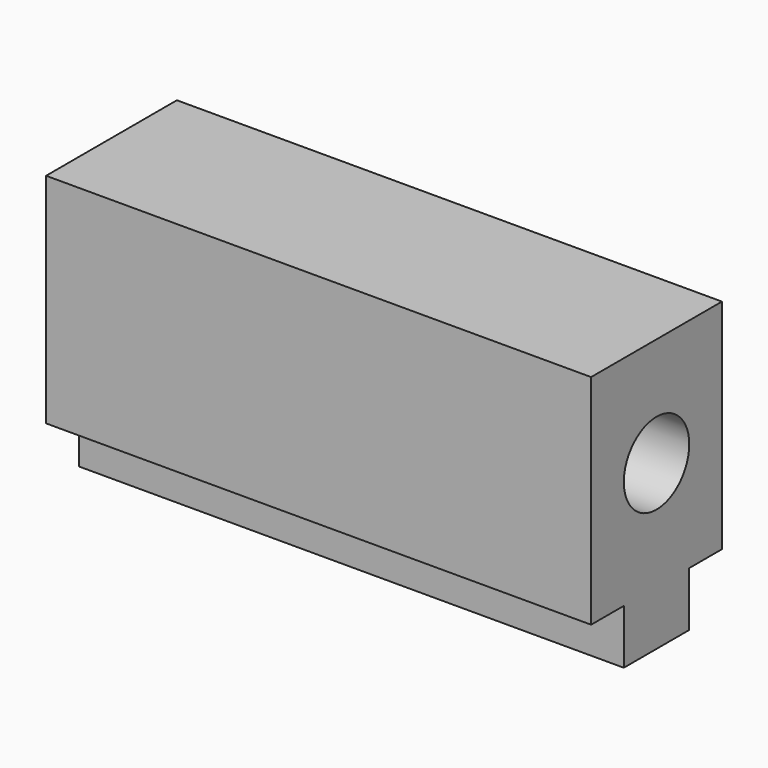
from build123d import *

# Parameters (mm, degrees)
F0_R     = 9.525
F1_DEPTH = 127


with BuildPart() as f1:
    # F0 (on Right) → F1 (new body)
    with BuildSketch(Plane.YZ):
        Polygon((-9.525, -19.05), (-9.525, -31.75), (9.525, -31.75), (9.525, -19.05), (19.05, -19.05), (19.05, 31.75), (-19.05, 31.75), (-19.05, 6.35), (-19.05, -19.05), align=None)
        with Locations((0, 6.35)):
            Circle(F0_R, mode=Mode.SUBTRACT)
    extrude(amount=F1_DEPTH)


solid = f1.part
